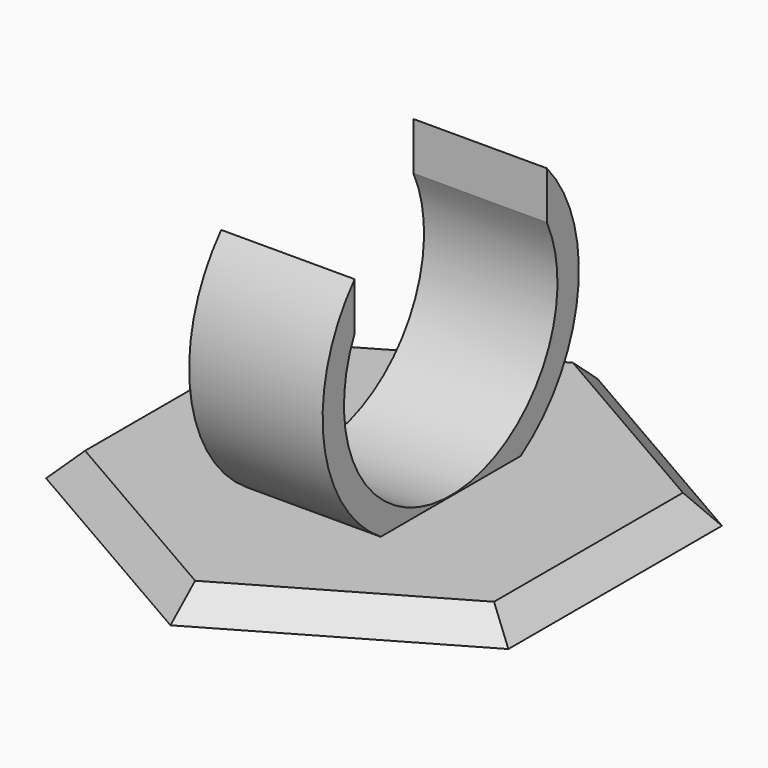
from build123d import *

# Parameters (mm, degrees)
F1_DEPTH = 2
F1_TAPER = 45
F2_R     = 12
F2_R_2   = 10
F3_DEPTH = 5
F4_W     = 18
F4_H     = 18
F5_DEPTH = 12.5


with BuildPart() as f1:
    # F0 (on Top) → F1 (new body)
    with BuildSketch(Plane.XY):
        Polygon((-17.3205080757, -10), (0, -20), (17.3205080757, -10), (17.3205080757, 10), (0, 20), (-17.3205080757, 10), align=None)
    extrude(amount=F1_DEPTH, taper=F1_TAPER)

    # F2 (on Right) → F3 (join, symmetric)
    with BuildSketch(Plane.YZ):
        with Locations((0, 12.0482798538)):
            Circle(F2_R)
        with Locations((0, 12.0482798538)):
            Circle(F2_R_2, mode=Mode.SUBTRACT)
    extrude(amount=F3_DEPTH, both=True)

    # F4 (on Right) → F5 (cut, symmetric)
    with BuildSketch(Plane.YZ):
        with Locations((0, 22.5956004525)):
            Rectangle(F4_W, F4_H)
    extrude(amount=F5_DEPTH, both=True, mode=Mode.SUBTRACT)


solid = f1.part
